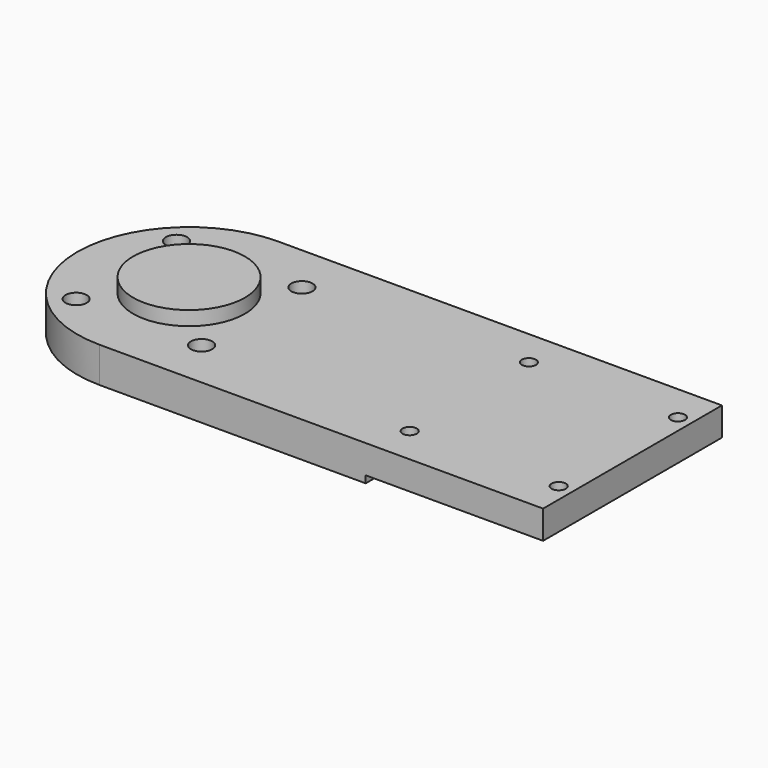
from build123d import *

# Parameters (mm, degrees)
F0_R     = 3
F0_R_2   = 15.75
F1_DEPTH = 10
F2_DEPTH = 14
F0_W     = 50
F0_H     = 63
F0_R_3   = 2
F3_DEPTH = 10
F4_DEPTH = 4
F5_DEPTH = 2


with BuildPart() as f1:
    # F0 (on Top) → F1 (new body)
    with BuildSketch(Plane.XY):
        with BuildLine():
            Line((-62.5, -31.5), (12.5, -31.5))
            Line((12.5, -31.5), (12.5, 31.5))
            Line((12.5, 31.5), (-62.5, 31.5))
            ThreePointArc((-62.5, 31.5), (-94, 0), (-62.5, -31.5))
        make_face()
        with Locations((-80.18, -17.68)):
            Circle(F0_R, mode=Mode.SUBTRACT)
        with Locations((-44.82, -17.68)):
            Circle(F0_R, mode=Mode.SUBTRACT)
        with Locations((-62.5, 0)):
            Circle(F0_R_2, mode=Mode.SUBTRACT)
        with Locations((-80.18, 17.68)):
            Circle(F0_R, mode=Mode.SUBTRACT)
        with Locations((-44.82, 17.68)):
            Circle(F0_R, mode=Mode.SUBTRACT)
    extrude(amount=F1_DEPTH)

    # F0 (on Top) → F2 (join)
    with BuildSketch(Plane.XY):
        with Locations((-62.5, 0)):
            Circle(F0_R_2)
    extrude(amount=F2_DEPTH)

    # F0 (on Top) → F3 (join)
    with BuildSketch(Plane.XY):
        with Locations((37.5, 0)):
            Rectangle(F0_W, F0_H)
        with Locations((16.5, -21)):
            Circle(F0_R_3, mode=Mode.SUBTRACT)
        with Locations((58.5, -21)):
            Circle(F0_R_3, mode=Mode.SUBTRACT)
        with Locations((16.5, 21)):
            Circle(F0_R_3, mode=Mode.SUBTRACT)
        with Locations((58.5, 21)):
            Circle(F0_R_3, mode=Mode.SUBTRACT)
    extrude(amount=F3_DEPTH)

    # F0 (on Top) → F4 (cut)
    with BuildSketch(Plane.XY):
        with Locations((-62.5, 0)):
            Circle(F0_R_2)
    extrude(amount=F4_DEPTH, mode=Mode.SUBTRACT)

    # F0 (on Top) → F5 (cut)
    with BuildSketch(Plane.XY):
        with Locations((37.5, 0)):
            Rectangle(F0_W, F0_H)
        with Locations((16.5, -21)):
            Circle(F0_R_3, mode=Mode.SUBTRACT)
        with Locations((58.5, -21)):
            Circle(F0_R_3, mode=Mode.SUBTRACT)
        with Locations((16.5, 21)):
            Circle(F0_R_3, mode=Mode.SUBTRACT)
        with Locations((58.5, 21)):
            Circle(F0_R_3, mode=Mode.SUBTRACT)
    extrude(amount=F5_DEPTH, mode=Mode.SUBTRACT)


solid = f1.part
